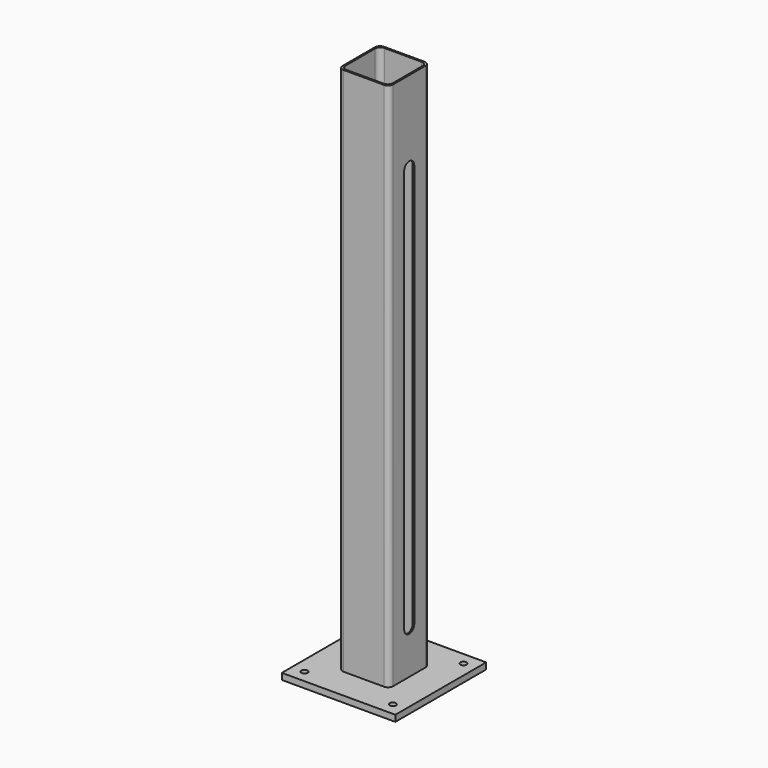
from build123d import *

# Parameters (mm, degrees)
F0_W     = 114.3
F0_H     = 114.3
F0_R     = 3.175
F1_DEPTH = 6.35
F2_W     = 50.8
F2_H     = 50.8
F2_W_2   = 47.625
F2_H_2   = 47.625
F3_DEPTH = 533.4
F4_R     = 5.08
F6_DEPTH = 82.551


with BuildPart() as f1:
    # F0 (on Top) → F1 (new body)
    with BuildSketch(Plane.XY):
        Rectangle(F0_W, F0_H)
        with Locations((-44.45, -44.45)):
            Circle(F0_R, mode=Mode.SUBTRACT)
        with Locations((44.45, -44.45)):
            Circle(F0_R, mode=Mode.SUBTRACT)
        with Locations((-44.45, 44.45)):
            Circle(F0_R, mode=Mode.SUBTRACT)
        with Locations((44.45, 44.45)):
            Circle(F0_R, mode=Mode.SUBTRACT)
    extrude(amount=F1_DEPTH)

    # F2 (on face) → F3 (join)
    with BuildSketch(Plane.XY.offset(6.35)):
        Rectangle(F2_W, F2_H)
        Rectangle(F2_W_2, F2_H_2, mode=Mode.SUBTRACT)
    extrude(amount=F3_DEPTH)

    # F4
    f4_edges = [f1.edges().sort_by_distance(p)[0] for p in [
        (25.4, 25.4, 273.05),
        (25.4, -25.4, 273.05),
        (-25.4, 25.4, 273.05),
        (-25.4, -25.4, 273.05),
        (-23.8125, -23.8125, 273.05),
        (23.8125, 23.8125, 273.05),
        (-23.8125, 23.8125, 273.05),
        (23.8125, -23.8125, 273.05),
    ]]
    fillet(f4_edges, radius=F4_R)

    # F5 (on face) → F6 (cut, through all)
    with BuildSketch(Plane(origin=(-25.4, 0, 0), x_dir=(0, -1, 0), z_dir=(-1, 0, 0))):
        with BuildLine():
            ThreePointArc((-6.35, 50.8), (0, 44.45), (6.35, 50.8))
            Line((6.35, 50.8), (6.35, 457.2))
            ThreePointArc((6.35, 457.2), (0, 463.55), (-6.35, 457.2))
            Line((-6.35, 457.2), (-6.35, 50.8))
        make_face()
    extrude(amount=-F6_DEPTH, mode=Mode.SUBTRACT)


solid = f1.part
